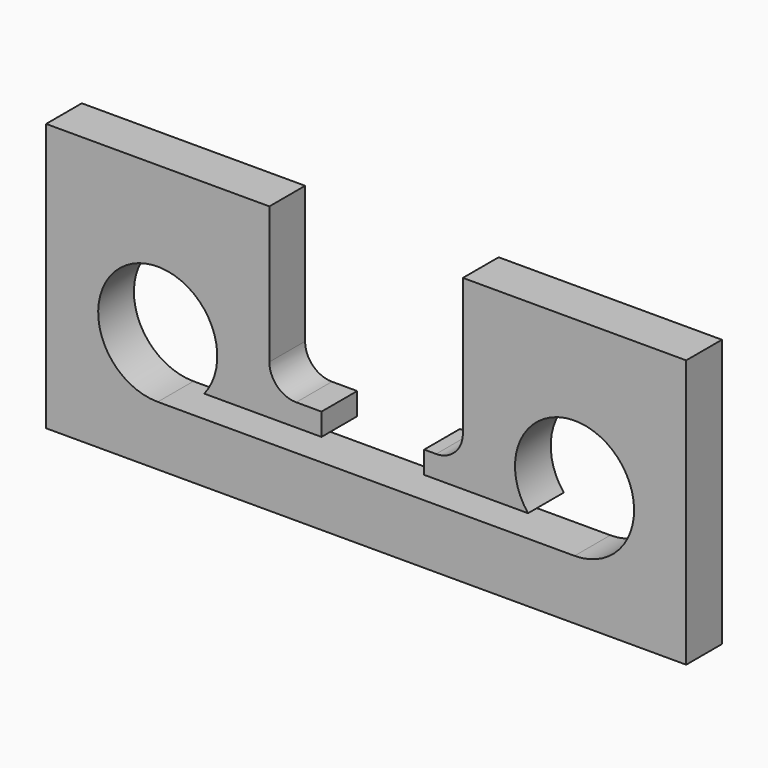
from build123d import *

# Parameters (mm, degrees)
F0_W     = 273.05
F0_H     = 114.3
F1_DEPTH = 19.05
F2_R     = 25.4
F3_DEPTH = 25.4
F5_DEPTH = 25.4
F7_DEPTH = 25.4


with BuildPart() as f1:
    # F0 (on Front) → F1 (new body)
    with BuildSketch(Plane.XZ):
        with Locations((136.525, 57.15)):
            Rectangle(F0_W, F0_H)
    extrude(amount=F1_DEPTH)

    # F2 (on face) → F3 (cut)
    with BuildSketch(Plane.XZ.offset(19.05)):
        with Locations((225.425, 50.8)):
            Circle(F2_R)
        with Locations((47.625, 50.8)):
            Circle(F2_R)
    extrude(amount=-F3_DEPTH, mode=Mode.SUBTRACT)

    # F4 (on face) → F5 (cut)
    with BuildSketch(Plane.XZ.offset(19.05)):
        with BuildLine():
            Line((177.8, 114.3), (95.25, 114.3))
            Line((95.25, 114.3), (95.25, 55.88))
            ThreePointArc((95.25, 55.88), (98.597769, 47.797769), (106.68, 44.45))
            Line((106.68, 44.45), (166.37, 44.45))
            ThreePointArc((166.37, 44.45), (174.452231, 47.797769), (177.8, 55.88))
            Line((177.8, 55.88), (177.8, 114.3))
        make_face()
    extrude(amount=-F5_DEPTH, mode=Mode.SUBTRACT)

    # F6 (on face) → F7 (cut)
    with BuildSketch(Plane.XZ.offset(19.05)):
        Polygon((117.475, 34.951167), (67.473791, 34.951167), (47.625, 25.4), (225.425, 25.4), (205.576209, 34.951167), (166.37, 34.951167), (161.29, 34.951167), (161.29, 44.45), (117.475, 44.45), align=None)
    extrude(amount=-F7_DEPTH, mode=Mode.SUBTRACT)


solid = f1.part
